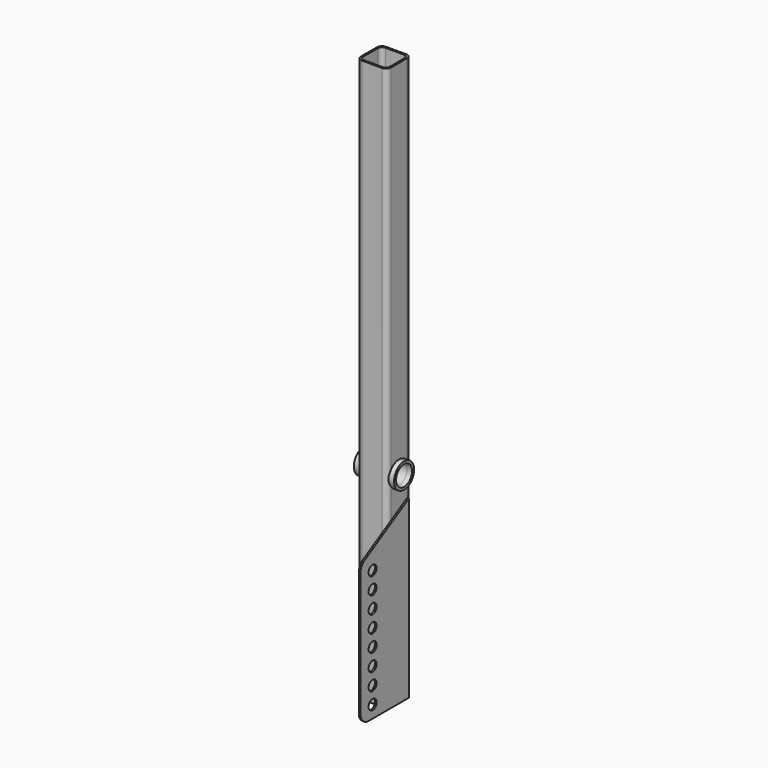
from build123d import *

# Parameters (mm, degrees)
F1_DEPTH      = 355.6
F3_DEPTH      = 19.051
F4_R          = 7.9375
F4_R_2        = 6.35
F5_DEPTH      = 3.175
F5_DEPTH_BACK = 22.225
F6_R          = 3.175
F7_DEPTH      = 1.0668


with BuildPart() as f1:
    # F0 (on Top) → F1 (new body)
    with BuildSketch(Plane.XY):
        with BuildLine():
            Line((-6.35, -9.525), (6.35, -9.525))
            ThreePointArc((6.35, -9.525), (8.595064, -8.595064), (9.525, -6.35))
            Line((9.525, -6.35), (9.525, 6.35))
            ThreePointArc((9.525, 6.35), (8.595064, 8.595064), (6.35, 9.525))
            Line((6.35, 9.525), (-6.35, 9.525))
            ThreePointArc((-6.35, 9.525), (-8.595064, 8.595064), (-9.525, 6.35))
            Line((-9.525, 6.35), (-9.525, -6.35))
            ThreePointArc((-9.525, -6.35), (-8.595064, -8.595064), (-6.35, -9.525))
        make_face()
        with BuildLine():
            ThreePointArc((-5.9182, -8.4582), (-7.714251, -7.714251), (-8.4582, -5.9182))
            Line((-8.4582, -5.9182), (-8.4582, 5.9182))
            ThreePointArc((-8.4582, 5.9182), (-7.714251, 7.714251), (-5.9182, 8.4582))
            Line((-5.9182, 8.4582), (5.9182, 8.4582))
            ThreePointArc((5.9182, 8.4582), (7.714251, 7.714251), (8.4582, 5.9182))
            Line((8.4582, 5.9182), (8.4582, -5.9182))
            ThreePointArc((8.4582, -5.9182), (7.714251, -7.714251), (5.9182, -8.4582))
            Line((5.9182, -8.4582), (-5.9182, -8.4582))
        make_face(mode=Mode.SUBTRACT)
    extrude(amount=F1_DEPTH)

    # F2 (on face) → F3 (cut, through all)
    with BuildSketch(Plane.YZ.offset(9.525)):
        with BuildLine():
            Line((-6.35, 122.2375), (-6.35, 131.7625))
            ThreePointArc((-6.35, 131.7625), (-7.9375, 127), (-6.35, 122.2375))
        make_face()
        with BuildLine():
            ThreePointArc((6.35, 122.2375), (7.530174, 124.489942), (7.9375, 127))
            ThreePointArc((7.9375, 127), (7.530174, 129.510058), (6.35, 131.7625))
            Line((6.35, 131.7625), (6.35, 122.2375))
        make_face()
        with BuildLine():
            Line((6.35, 122.2375), (6.35, 131.7625))
            ThreePointArc((6.35, 131.7625), (0, 134.9375), (-6.35, 131.7625))
            Line((-6.35, 131.7625), (-6.35, 122.2375))
            ThreePointArc((-6.35, 122.2375), (0, 119.0625), (6.35, 122.2375))
        make_face()
    extrude(amount=-F3_DEPTH, mode=Mode.SUBTRACT)

    # F4 (on face) → F5 (join, two sides)
    with BuildSketch(Plane.YZ.offset(9.525)) as f5_sk:
        with Locations((0, 127)):
            Circle(F4_R)
        with Locations((0, 127)):
            Circle(F4_R_2, mode=Mode.SUBTRACT)
    extrude(amount=F5_DEPTH)
    extrude(f5_sk.sketch, amount=-F5_DEPTH_BACK)

    # F6 (on face) → F7 (join)
    with BuildSketch(Plane.YZ.offset(9.525)):
        with BuildLine():
            Line((-25.4, 0), (6.35, 0))
            Line((6.35, 0), (6.35, 110.897045))
            Line((6.35, 110.897045), (-28.575, 90.733087))
            ThreePointArc((-28.575, 90.733087), (-30.899261, 88.408826), (-31.75, 85.233826))
            Line((-31.75, 85.233826), (-31.75, 6.35))
            ThreePointArc((-31.75, 6.35), (-29.890128, 1.859872), (-25.4, 0))
        make_face()
        with Locations((-22.225, 7.874)):
            Circle(F6_R, mode=Mode.SUBTRACT)
        with Locations((-22.225, 18.542)):
            Circle(F6_R, mode=Mode.SUBTRACT)
        with Locations((-22.225, 29.21)):
            Circle(F6_R, mode=Mode.SUBTRACT)
        with Locations((-22.225, 39.878)):
            Circle(F6_R, mode=Mode.SUBTRACT)
        with Locations((-22.225, 50.546)):
            Circle(F6_R, mode=Mode.SUBTRACT)
        with Locations((-22.225, 61.214)):
            Circle(F6_R, mode=Mode.SUBTRACT)
        with Locations((-22.225, 71.882)):
            Circle(F6_R, mode=Mode.SUBTRACT)
        with Locations((-22.225, 82.55)):
            Circle(F6_R, mode=Mode.SUBTRACT)
        with BuildLine():
            Line((-25.4, 0), (6.35, 0))
            Line((6.35, 0), (6.35, 110.897045))
            Line((6.35, 110.897045), (-28.575, 90.733087))
            ThreePointArc((-28.575, 90.733087), (-30.899261, 88.408826), (-31.75, 85.233826))
            Line((-31.75, 85.233826), (-31.75, 6.35))
            ThreePointArc((-31.75, 6.35), (-29.890128, 1.859872), (-25.4, 0))
        make_face()
        with Locations((-22.225, 7.874)):
            Circle(F6_R, mode=Mode.SUBTRACT)
        with Locations((-22.225, 18.542)):
            Circle(F6_R, mode=Mode.SUBTRACT)
        with Locations((-22.225, 29.21)):
            Circle(F6_R, mode=Mode.SUBTRACT)
        with Locations((-22.225, 39.878)):
            Circle(F6_R, mode=Mode.SUBTRACT)
        with Locations((-22.225, 50.546)):
            Circle(F6_R, mode=Mode.SUBTRACT)
        with Locations((-22.225, 61.214)):
            Circle(F6_R, mode=Mode.SUBTRACT)
        with Locations((-22.225, 71.882)):
            Circle(F6_R, mode=Mode.SUBTRACT)
        with Locations((-22.225, 82.55)):
            Circle(F6_R, mode=Mode.SUBTRACT)
    extrude(amount=F7_DEPTH)


solid = f1.part
